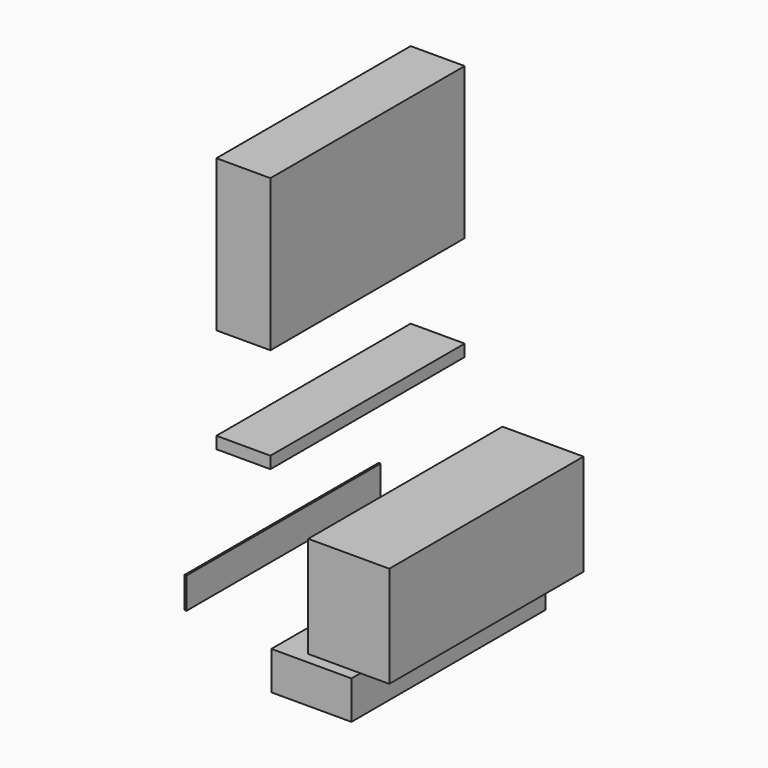
from build123d import *

# Parameters (mm, degrees)
F0_W     = 22.919532
F0_H     = 5.051814
F0_W_2   = 34.379277
F0_H_2   = 43.024123
F0_W_3   = 0.833429
F0_H_3   = 13.15888
F0_W_4   = 33.962578
F0_H_4   = 16.240783
F0_H_5   = 64.305313
F1_DEPTH = 103.031218


with BuildPart() as f1:
    # F0 (on Front) → F1 (new body)
    with BuildSketch(Plane.XZ):
        with Locations((4.167212, 23.289066)):
            Rectangle(F0_W, F0_H)
        with Locations((48.860294, -21.512061)):
            Rectangle(F0_W_2, F0_H_2)
        with Locations((-20.419196, -37.14842)):
            Rectangle(F0_W_3, F0_H_3)
        with Locations((33.024989, -54.328654)):
            Rectangle(F0_W_4, F0_H_4)
        with Locations((4.167212, 97.328569)):
            Rectangle(F0_W, F0_H_5)
    extrude(amount=F1_DEPTH)


solid = f1.part
